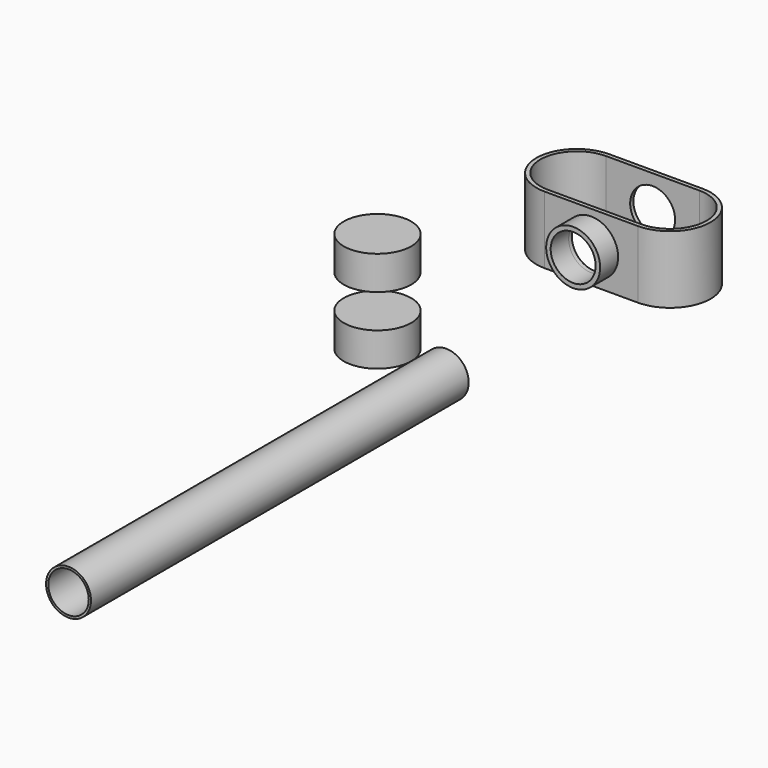
from build123d import *

# Parameters (mm, degrees)
F0_R      = 10
F0_R_2    = 9
F1_DEPTH  = 210
F2_R      = 15
F3_DEPTH  = 15
F6_DEPTH  = 30
F7_R      = 12
F7_R_2    = 10
F8_DEPTH  = 10
F9_R      = 10
F10_DEPTH = 36.001


with BuildPart() as f1:
    # F0 (on Front) → F1 (new body)
    with BuildSketch(Plane.XZ):
        Circle(F0_R)
        Circle(F0_R_2, mode=Mode.SUBTRACT)
    extrude(amount=F1_DEPTH)


with BuildPart() as f3:
    # F2 (on Top) → F3 (new body)
    with BuildSketch(Plane.XY):
        with Locations((-30.576694, 0)):
            Circle(F2_R)
    extrude(amount=F3_DEPTH)


with BuildPart() as f4_1:
    # F4: copy of F3
    add(f3.part.moved(Location((0, 0, 30))))


with BuildPart() as f6:
    # F5 (on Top) → F6 (new body)
    with BuildSketch(Plane.XY):
        with BuildLine():
            Line((18.325, 119.597556), (-23.175, 119.597556))
            ThreePointArc((-23.175, 119.597556), (-41.175, 101.597556), (-23.175, 83.597556))
            Line((-23.175, 83.597556), (18.325, 83.597556))
            ThreePointArc((18.325, 83.597556), (36.325, 101.597556), (18.325, 119.597556))
        make_face()
        with BuildLine():
            ThreePointArc((-23.175, 85.397556), (-39.375, 101.597556), (-23.175, 117.797556))
            Line((-23.175, 117.797556), (-4.85, 117.797556))
            Line((-4.85, 117.797556), (0, 117.797556))
            Line((0, 117.797556), (18.325, 117.797556))
            ThreePointArc((18.325, 117.797556), (34.525, 101.597556), (18.325, 85.397556))
            Line((18.325, 85.397556), (0, 85.397556))
            Line((0, 85.397556), (-4.85, 85.397556))
            Line((-4.85, 85.397556), (-23.175, 85.397556))
        make_face(mode=Mode.SUBTRACT)
    extrude(amount=F6_DEPTH)

    # F7 (on face) → F8 (join)
    with BuildSketch(Plane.XZ.offset(-83.597556)):
        with Locations((-2.425, 15)):
            Circle(F7_R)
        with Locations((-2.425, 15)):
            Circle(F7_R_2, mode=Mode.SUBTRACT)
    extrude(amount=F8_DEPTH)

    # F9 (on face) → F10 (cut, through all)
    with BuildSketch(Plane.XZ.offset(-83.597556)):
        with Locations((-2.425, 15)):
            Circle(F9_R)
    extrude(amount=-F10_DEPTH, mode=Mode.SUBTRACT)


solid = Compound([f1.part, f3.part, f4_1.part, f6.part])
